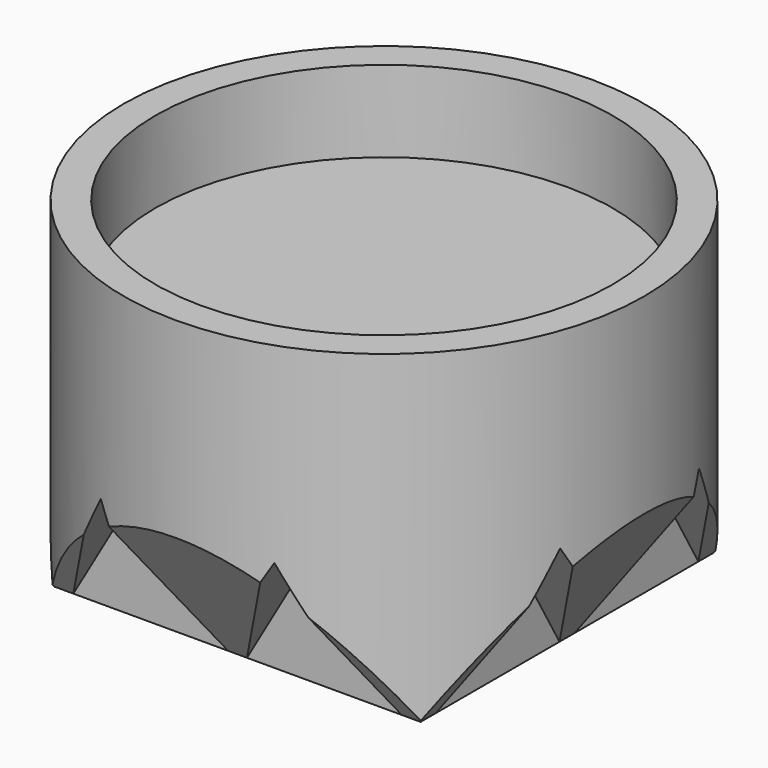
from build123d import *

# Parameters (mm, degrees)
F0_R          = 16
F1_DEPTH      = 20
F3_DEPTH      = 25
F5_DEPTH      = 16.001
F5_DEPTH_BACK = 16.001
F6_R          = 14.05
F7_DEPTH      = 5
F8_W          = 10.4940169359
F8_H          = 10.4940169359
F9_DEPTH      = 10.92124


with BuildPart() as f1:
    # F0 (on Top) → F1 (new body)
    with BuildSketch(Plane.XY):
        Circle(F0_R)
    extrude(amount=F1_DEPTH)

    # F2 (on Front) → F3 (cut, symmetric)
    with BuildSketch(Plane.XZ):
        Polygon((16, 8.237604307), (10.6666666667, -1), (21.3333333333, -1), align=None)
        Polygon((5.3333333333, 8.237604307), (0, -1), (10.6666666667, -1), align=None)
        Polygon((-5.3333333333, 8.237604307), (-10.6666666667, -1), (0, -1), align=None)
        Polygon((-16, 8.237604307), (-21.3333333333, -1), (-10.6666666667, -1), align=None)
    extrude(amount=F3_DEPTH, both=True, mode=Mode.SUBTRACT)

    # F4 (on Right) → F5 (cut, two sides)
    with BuildSketch(Plane.YZ) as f5_sk:
        Polygon((16, 8.237604307), (10.6666666667, -1), (21.3333333333, -1), align=None)
        Polygon((5.3333333333, 8.237604307), (0, -1), (10.6666666667, -1), align=None)
        Polygon((-5.3333333333, 8.237604307), (-10.6666666667, -1), (0, -1), align=None)
        Polygon((-16, 8.237604307), (-21.3333333333, -1), (-10.6666666667, -1), align=None)
    extrude(amount=-F5_DEPTH, mode=Mode.SUBTRACT)
    extrude(f5_sk.sketch, amount=F5_DEPTH_BACK, mode=Mode.SUBTRACT)

    # F6 (on face) → F7 (cut)
    with BuildSketch(Plane.XY.offset(20)):
        Circle(F6_R)
    extrude(amount=-F7_DEPTH, mode=Mode.SUBTRACT)

    # F8 (on Top) → F9 (join)
    with BuildSketch(Plane.XY):
        Polygon((-11.2440169359, -11.2440169359), (11.2440169359, -11.2440169359), (11.2440169359, -10.7440169359), (11.2440169359, -0.25), (11.2440169359, 0.25), (11.2440169359, 10.7440169359), (11.2440169359, 11.2440169359), (-11.2440169359, 11.2440169359), (-11.2440169359, 10.7440169359), (-11.2440169359, 0.25), (-11.2440169359, -0.25), (-11.2440169359, -10.7440169359), align=None)
        with Locations((-5.4970084679, -5.4970084679)):
            Rectangle(F8_W, F8_H, mode=Mode.SUBTRACT)
        with Locations((5.4970084679, -5.4970084679)):
            Rectangle(F8_W, F8_H, mode=Mode.SUBTRACT)
        with Locations((-5.4970084679, 5.4970084679)):
            Rectangle(F8_W, F8_H, mode=Mode.SUBTRACT)
        with Locations((5.4970084679, 5.4970084679)):
            Rectangle(F8_W, F8_H, mode=Mode.SUBTRACT)
    extrude(amount=F9_DEPTH)


solid = f1.part
